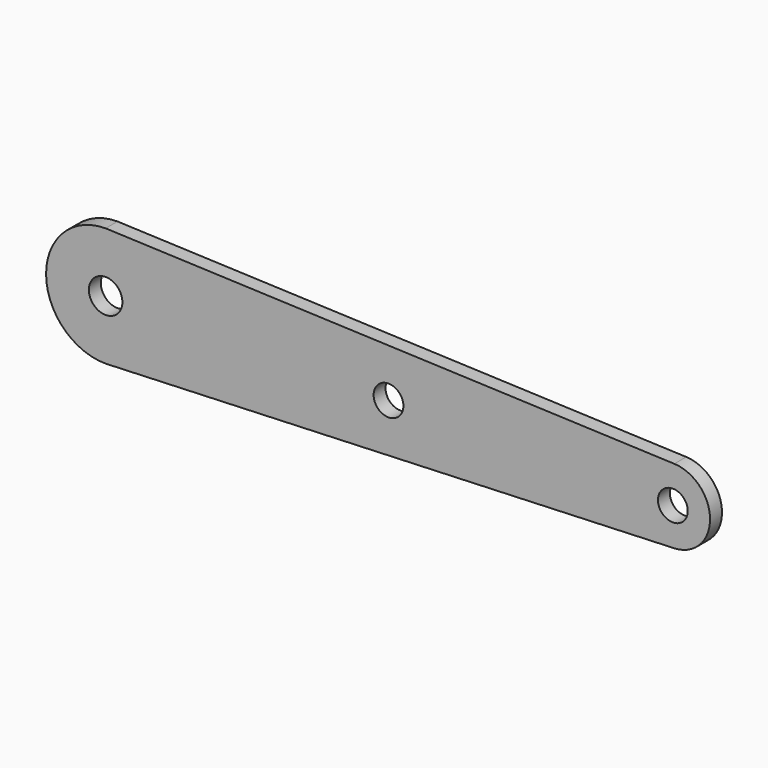
from build123d import *

# Parameters (mm, degrees)
F0_R     = 1.125
F0_R_2   = 1
F1_DEPTH = 1


with BuildPart() as f1:
    # F0 (on Front) → F1 (new body)
    with BuildSketch(Plane.XZ):
        with BuildLine():
            Line((38.198223, 2.49807), (0, 4))
            ThreePointArc((0, 4), (-4, 0), (0, -4))
            Line((0, -4), (38.198223, -2.49807))
            ThreePointArc((38.198223, -2.49807), (40.6, 0), (38.198223, 2.49807))
        make_face()
        Circle(F0_R, mode=Mode.SUBTRACT)
        with Locations((19, 0)):
            Circle(F0_R_2, mode=Mode.SUBTRACT)
        with Locations((38.1, 0)):
            Circle(F0_R_2, mode=Mode.SUBTRACT)
    extrude(amount=F1_DEPTH)


solid = f1.part
